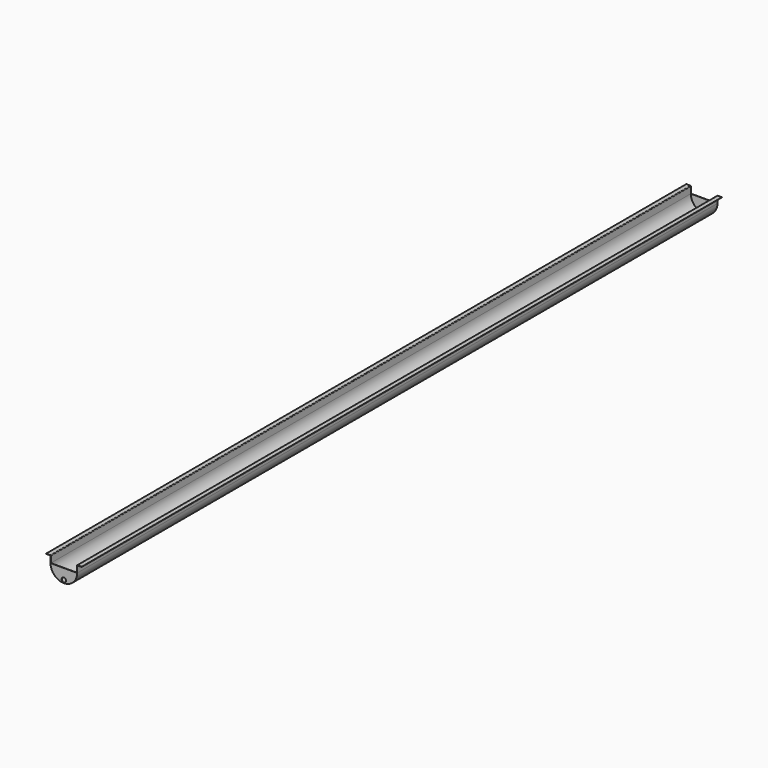
from build123d import *

# Parameters (mm, degrees)
F1_DEPTH = 4572
F3_DEPTH = 3.175
F5_DEPTH = 2.794
F6_D     = 50.8
F6_DEPTH = 12.7


with BuildPart() as f1:
    # F0 (on Front) → F1 (new body, symmetric)
    with BuildSketch(Plane.XZ):
        with BuildLine():
            ThreePointArc((-152.4, 0), (0, -152.4), (152.4, 0))
            Line((152.4, 0), (152.4, 72.39))
            ThreePointArc((152.4, 72.39), (153.515923, 75.084077), (156.21, 76.2))
            Line((156.21, 76.2), (203.2, 76.2))
            Line((203.2, 76.2), (203.2, 78.994))
            Line((203.2, 78.994), (156.21, 78.994))
            ThreePointArc((156.21, 78.994), (151.540267, 77.059733), (149.606, 72.39))
            Line((149.606, 72.39), (149.606, 0))
            ThreePointArc((149.606, 0), (0, -149.606), (-149.606, 0))
            Line((-149.606, 0), (-149.606, 72.39))
            ThreePointArc((-149.606, 72.39), (-151.540267, 77.059733), (-156.21, 78.994))
            Line((-156.21, 78.994), (-203.2, 78.994))
            Line((-203.2, 78.994), (-203.2, 76.2))
            Line((-203.2, 76.2), (-156.21, 76.2))
            ThreePointArc((-156.21, 76.2), (-153.515923, 75.084077), (-152.4, 72.39))
            Line((-152.4, 72.39), (-152.4, 0))
        make_face()
    extrude(amount=F1_DEPTH, both=True)

    # F2 (on face) → F3 (join)
    with BuildSketch(Plane.XZ.offset(4572)):
        with BuildLine():
            Line((152.4, 0), (-152.4, 0))
            ThreePointArc((-152.4, 0), (0, -152.4), (152.4, 0))
        make_face()
    extrude(amount=-F3_DEPTH)

    # F4 (on face) → F5 (join)
    with BuildSketch(Plane(origin=(0, 4572, 0), x_dir=(-1, 0, 0), z_dir=(0, 1, 0))):
        with BuildLine():
            ThreePointArc((-149.606, 0), (0, -149.606), (149.606, 0))
            Line((149.606, 0), (-149.606, 0))
        make_face()
    extrude(amount=-F5_DEPTH)

    # F6
    with Locations(Plane.XZ.offset(4572)):
        with Locations((0, -121.031)):
            Hole(F6_D / 2, depth=F6_DEPTH)


solid = f1.part
